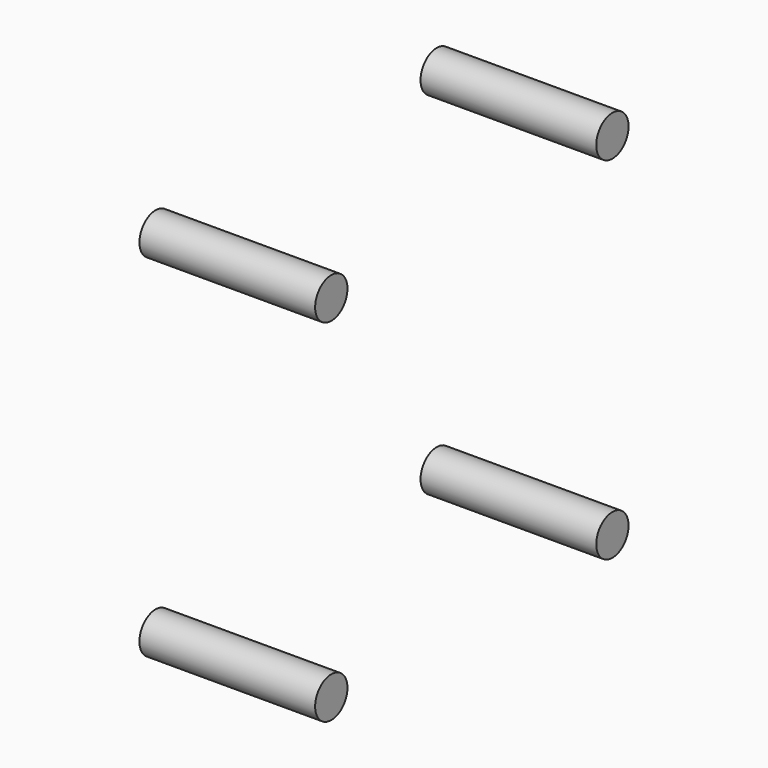
from build123d import *

# Parameters (mm, degrees)
CYLINDER004_R     = 1.15
CYLINDER004_DEPTH = 10
CYLINDER003_R     = 1.15
CYLINDER003_DEPTH = 10
CYLINDER002_R     = 1.15
CYLINDER002_DEPTH = 10
CYLINDER005_R     = 1.15
CYLINDER005_DEPTH = 10


with BuildPart() as cylinder004:
    # Cylinder004 → Cylinder004 (new body)
    with BuildSketch(Plane(origin=(14, 10, 3), x_dir=(0, 0, -1), z_dir=(1, 0, 0))):
        Circle(CYLINDER004_R)
    extrude(amount=CYLINDER004_DEPTH)


with BuildPart() as cylinder003:
    # Cylinder003 → Cylinder003 (new body)
    with BuildSketch(Plane(origin=(14, -10, 23), x_dir=(0, 0, -1), z_dir=(1, 0, 0))):
        Circle(CYLINDER003_R)
    extrude(amount=CYLINDER003_DEPTH)


with BuildPart() as cylinder002:
    # Cylinder002 → Cylinder002 (new body)
    with BuildSketch(Plane(origin=(14, 10, 23), x_dir=(0, 0, -1), z_dir=(1, 0, 0))):
        Circle(CYLINDER002_R)
    extrude(amount=CYLINDER002_DEPTH)


with BuildPart() as fusion001:
    # Cylinder005 → Cylinder005 (new body)
    with BuildSketch(Plane(origin=(14, -10, 3), x_dir=(0, 0, -1), z_dir=(1, 0, 0))):
        Circle(CYLINDER005_R)
    extrude(amount=CYLINDER005_DEPTH)

    # Fusion001: union Cylinder004, Cylinder003, Cylinder002
    add(cylinder004.part)
    add(cylinder003.part)
    add(cylinder002.part)


solid = fusion001.part
